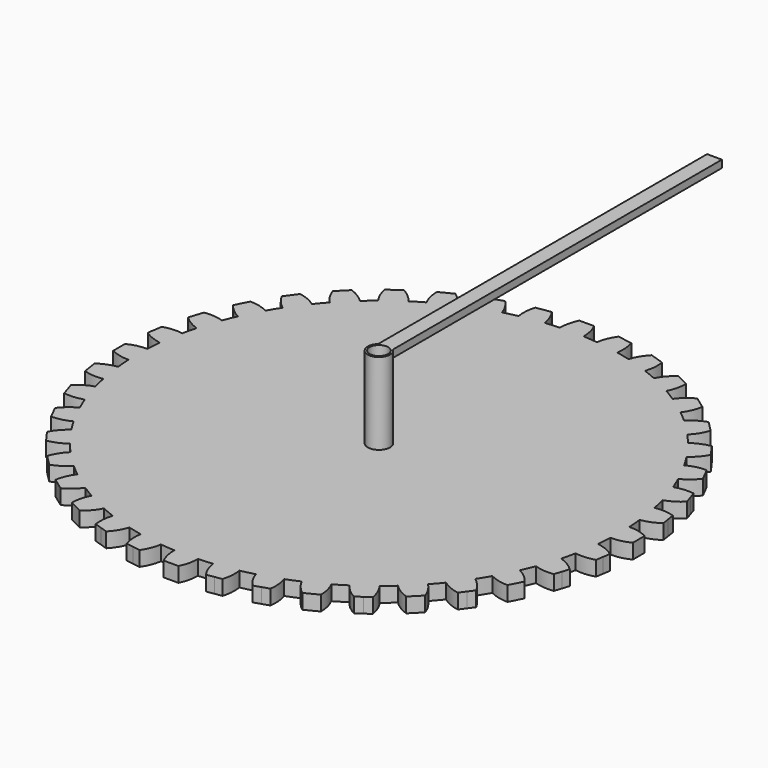
from build123d import *

# Parameters (mm, degrees)
F1_DEPTH = 2
F2_R     = 1.5
F3_DEPTH = 11
F4_R     = 1.25
F5_DEPTH = 15
F6_W     = 1
F6_H     = 55
F7_DEPTH = 1


with BuildPart() as f1:
    # F0 (on Top) → F1 (new body)
    with BuildSketch(Plane.XY):
        with BuildLine():
            ThreePointArc((32.461081165, -1.5900344654), (32.4902688344, -0.7952553484), (32.5, 0))
            ThreePointArc((32.5, 0), (32.4902688344, 0.7952553484), (32.461081165, 1.5900344654))
            ThreePointArc((32.461081165, 1.5900344654), (32.3998133463, 2.5499206112), (32.3101675807, 3.5075733641))
            ThreePointArc((32.3101675807, 3.5075733641), (32.0998710693, 5.0841201138), (31.8126951988, 6.6484903693))
            ThreePointArc((31.8126951988, 6.6484903693), (31.6020224129, 7.5869743253), (31.3636704394, 8.5188130963))
            ThreePointArc((31.3636704394, 8.5188130963), (30.9093367796, 10.0430523172), (30.3809750965, 11.5432383752))
            ThreePointArc((30.3809750965, 11.5432383752), (30.0260848066, 12.4372115519), (29.6448956417, 13.3202913778))
            ThreePointArc((29.6448956417, 13.3202913778), (28.9577120361, 14.7546912415), (28.2011745587, 16.1537535425))
            ThreePointArc((28.2011745587, 16.1537535425), (27.7108053415, 16.9812033533), (27.1961651276, 17.7937798781))
            ThreePointArc((27.1961651276, 17.7937798781), (26.2930523172, 19.1030206995), (25.3269675089, 20.3665096864))
            ThreePointArc((25.3269675089, 20.3665096864), (24.713193882, 21.1070615707), (24.0777747692, 21.8291264636))
            ThreePointArc((24.0777747692, 21.8291264636), (22.9809703886, 22.9809703886), (21.8291264636, 24.0777747692))
            ThreePointArc((21.8291264636, 24.0777747692), (21.1070615707, 24.713193882), (20.3665096864, 25.3269675089))
            ThreePointArc((20.3665096864, 25.3269675089), (19.1030206995, 26.2930523172), (17.7937798781, 27.1961651276))
            ThreePointArc((17.7937798781, 27.1961651276), (16.9812033533, 27.7108053415), (16.1537535425, 28.2011745587))
            ThreePointArc((16.1537535425, 28.2011745587), (14.7546912415, 28.9577120361), (13.3202913778, 29.6448956417))
            ThreePointArc((13.3202913778, 29.6448956417), (12.4372115519, 30.0260848066), (11.5432383752, 30.3809750965))
            ThreePointArc((11.5432383752, 30.3809750965), (10.0430523172, 30.9093367796), (8.5188130963, 31.3636704394))
            ThreePointArc((8.5188130963, 31.3636704394), (7.5869743253, 31.6020224129), (6.6484903693, 31.8126951988))
            ThreePointArc((6.6484903693, 31.8126951988), (5.0841201138, 32.0998710693), (3.5075733641, 32.3101675807))
            ThreePointArc((3.5075733641, 32.3101675807), (2.5499206112, 32.3998133463), (1.5900344654, 32.461081165))
            ThreePointArc((1.5900344654, 32.461081165), (0, 32.5), (-1.5900344654, 32.461081165))
            ThreePointArc((-1.5900344654, 32.461081165), (-2.5499206112, 32.3998133463), (-3.5075733641, 32.3101675807))
            ThreePointArc((-3.5075733641, 32.3101675807), (-5.0841201138, 32.0998710693), (-6.6484903693, 31.8126951988))
            ThreePointArc((-6.6484903693, 31.8126951988), (-7.5869743253, 31.6020224129), (-8.5188130963, 31.3636704394))
            ThreePointArc((-8.5188130963, 31.3636704394), (-10.0430523172, 30.9093367796), (-11.5432383752, 30.3809750965))
            ThreePointArc((-11.5432383752, 30.3809750965), (-12.4372115519, 30.0260848066), (-13.3202913778, 29.6448956417))
            ThreePointArc((-13.3202913778, 29.6448956417), (-14.7546912415, 28.9577120361), (-16.1537535425, 28.2011745587))
            ThreePointArc((-16.1537535425, 28.2011745587), (-16.9812033533, 27.7108053415), (-17.7937798781, 27.1961651276))
            ThreePointArc((-17.7937798781, 27.1961651276), (-19.1030206995, 26.2930523172), (-20.3665096864, 25.3269675089))
            ThreePointArc((-20.3665096864, 25.3269675089), (-21.1070615707, 24.713193882), (-21.8291264636, 24.0777747692))
            ThreePointArc((-21.8291264636, 24.0777747692), (-22.9809703886, 22.9809703886), (-24.0777747692, 21.8291264636))
            ThreePointArc((-24.0777747692, 21.8291264636), (-24.713193882, 21.1070615707), (-25.3269675089, 20.3665096864))
            ThreePointArc((-25.3269675089, 20.3665096864), (-26.2930523172, 19.1030206995), (-27.1961651276, 17.7937798781))
            ThreePointArc((-27.1961651276, 17.7937798781), (-27.7108053415, 16.9812033533), (-28.2011745587, 16.1537535425))
            ThreePointArc((-28.2011745587, 16.1537535425), (-28.9577120361, 14.7546912415), (-29.6448956417, 13.3202913778))
            ThreePointArc((-29.6448956417, 13.3202913778), (-30.0260848066, 12.4372115519), (-30.3809750965, 11.5432383752))
            ThreePointArc((-30.3809750965, 11.5432383752), (-30.9093367796, 10.0430523172), (-31.3636704394, 8.5188130963))
            ThreePointArc((-31.3636704394, 8.5188130963), (-31.6020224129, 7.5869743253), (-31.8126951988, 6.6484903693))
            ThreePointArc((-31.8126951988, 6.6484903693), (-32.0998710693, 5.0841201138), (-32.3101675807, 3.5075733641))
            ThreePointArc((-32.3101675807, 3.5075733641), (-32.3998133463, 2.5499206112), (-32.461081165, 1.5900344654))
            ThreePointArc((-32.461081165, 1.5900344654), (-32.5, 0), (-32.461081165, -1.5900344654))
            ThreePointArc((-32.461081165, -1.5900344654), (-32.3998133463, -2.5499206112), (-32.3101675807, -3.5075733641))
            ThreePointArc((-32.3101675807, -3.5075733641), (-32.0998710693, -5.0841201138), (-31.8126951988, -6.6484903693))
            ThreePointArc((-31.8126951988, -6.6484903693), (-31.6020224129, -7.5869743253), (-31.3636704394, -8.5188130963))
            ThreePointArc((-31.3636704394, -8.5188130963), (-30.9093367796, -10.0430523172), (-30.3809750965, -11.5432383752))
            ThreePointArc((-30.3809750965, -11.5432383752), (-30.0260848066, -12.4372115519), (-29.6448956417, -13.3202913778))
            ThreePointArc((-29.6448956417, -13.3202913778), (-28.9577120361, -14.7546912415), (-28.2011745587, -16.1537535425))
            ThreePointArc((-28.2011745587, -16.1537535425), (-27.7108053415, -16.9812033533), (-27.1961651276, -17.7937798781))
            ThreePointArc((-27.1961651276, -17.7937798781), (-26.2930523172, -19.1030206995), (-25.3269675089, -20.3665096864))
            ThreePointArc((-25.3269675089, -20.3665096864), (-24.713193882, -21.1070615707), (-24.0777747692, -21.8291264636))
            ThreePointArc((-24.0777747692, -21.8291264636), (-22.9809703886, -22.9809703886), (-21.8291264636, -24.0777747692))
            ThreePointArc((-21.8291264636, -24.0777747692), (-21.1070615707, -24.713193882), (-20.3665096864, -25.3269675089))
            ThreePointArc((-20.3665096864, -25.3269675089), (-19.1030206995, -26.2930523172), (-17.7937798781, -27.1961651276))
            ThreePointArc((-17.7937798781, -27.1961651276), (-16.9812033533, -27.7108053415), (-16.1537535425, -28.2011745587))
            ThreePointArc((-16.1537535425, -28.2011745587), (-14.7546912415, -28.9577120361), (-13.3202913778, -29.6448956417))
            ThreePointArc((-13.3202913778, -29.6448956417), (-12.4372115519, -30.0260848066), (-11.5432383752, -30.3809750965))
            ThreePointArc((-11.5432383752, -30.3809750965), (-10.0430523172, -30.9093367796), (-8.5188130963, -31.3636704394))
            ThreePointArc((-8.5188130963, -31.3636704394), (-7.5869743253, -31.6020224129), (-6.6484903693, -31.8126951988))
            ThreePointArc((-6.6484903693, -31.8126951988), (-5.0841201138, -32.0998710693), (-3.5075733641, -32.3101675807))
            ThreePointArc((-3.5075733641, -32.3101675807), (-2.5499206112, -32.3998133463), (-1.5900344654, -32.461081165))
            ThreePointArc((-1.5900344654, -32.461081165), (0, -32.5), (1.5900344654, -32.461081165))
            ThreePointArc((1.5900344654, -32.461081165), (2.5499206112, -32.3998133463), (3.5075733641, -32.3101675807))
            ThreePointArc((3.5075733641, -32.3101675807), (5.0841201138, -32.0998710693), (6.6484903693, -31.8126951988))
            ThreePointArc((6.6484903693, -31.8126951988), (7.5869743253, -31.6020224129), (8.5188130963, -31.3636704394))
            ThreePointArc((8.5188130963, -31.3636704394), (10.0430523172, -30.9093367796), (11.5432383752, -30.3809750965))
            ThreePointArc((11.5432383752, -30.3809750965), (12.4372115519, -30.0260848066), (13.3202913778, -29.6448956417))
            ThreePointArc((13.3202913778, -29.6448956417), (14.7546912415, -28.9577120361), (16.1537535425, -28.2011745587))
            ThreePointArc((16.1537535425, -28.2011745587), (16.9812033533, -27.7108053415), (17.7937798781, -27.1961651276))
            ThreePointArc((17.7937798781, -27.1961651276), (19.1030206995, -26.2930523172), (20.3665096864, -25.3269675089))
            ThreePointArc((20.3665096864, -25.3269675089), (21.1070615707, -24.713193882), (21.8291264636, -24.0777747692))
            ThreePointArc((21.8291264636, -24.0777747692), (22.9809703886, -22.9809703886), (24.0777747692, -21.8291264636))
            ThreePointArc((24.0777747692, -21.8291264636), (24.713193882, -21.1070615707), (25.3269675089, -20.3665096864))
            ThreePointArc((25.3269675089, -20.3665096864), (26.2930523172, -19.1030206995), (27.1961651276, -17.7937798781))
            ThreePointArc((27.1961651276, -17.7937798781), (27.7108053415, -16.9812033533), (28.2011745587, -16.1537535425))
            ThreePointArc((28.2011745587, -16.1537535425), (28.9577120361, -14.7546912415), (29.6448956417, -13.3202913778))
            ThreePointArc((29.6448956417, -13.3202913778), (30.0260848066, -12.4372115519), (30.3809750965, -11.5432383752))
            ThreePointArc((30.3809750965, -11.5432383752), (30.9093367796, -10.0430523172), (31.3636704394, -8.5188130963))
            ThreePointArc((31.3636704394, -8.5188130963), (31.6020224129, -7.5869743253), (31.8126951988, -6.6484903693))
            ThreePointArc((31.8126951988, -6.6484903693), (32.0998710693, -5.0841201138), (32.3101675807, -3.5075733641))
            ThreePointArc((32.3101675807, -3.5075733641), (32.3998133463, -2.5499206112), (32.461081165, -1.5900344654))
        make_face()
        with BuildLine():
            ThreePointArc((32.461081165, 1.5900344654), (32.4902688344, 0.7952553484), (32.5, 0))
            ThreePointArc((32.5, 0), (32.4902688344, -0.7952553484), (32.461081165, -1.5900344654))
            ThreePointArc((32.461081165, -1.5900344654), (33.7654111161, -1.4450651702), (35, -1))
            Line((35, -1), (35, 0))
            Line((35, 0), (35, 1))
            ThreePointArc((35, 1), (33.7654111161, 1.4450651702), (32.461081165, 1.5900344654))
        make_face()
        with BuildLine():
            ThreePointArc((31.8126951988, 6.6484903693), (32.0998710693, 5.0841201138), (32.3101675807, 3.5075733641))
            ThreePointArc((32.3101675807, 3.5075733641), (33.5757608716, 3.8548000048), (34.7255263859, 4.4875179358))
            Line((34.7255263859, 4.4875179358), (34.5690919208, 5.4752062764))
            Line((34.5690919208, 5.4752062764), (34.4126574558, 6.462894617))
            ThreePointArc((34.4126574558, 6.462894617), (33.1236448779, 6.7093480448), (31.8126951988, 6.6484903693))
        make_face()
        with BuildLine():
            ThreePointArc((34.7255263859, -4.4875179358), (33.5757608716, -3.8548000048), (32.3101675807, -3.5075733641))
            ThreePointArc((32.3101675807, -3.5075733641), (32.0998710693, -5.0841201138), (31.8126951988, -6.6484903693))
            ThreePointArc((31.8126951988, -6.6484903693), (33.1236448779, -6.7093480448), (34.4126574558, -6.462894617))
            Line((34.4126574558, -6.462894617), (34.5690919208, -5.4752062764))
            Line((34.5690919208, -5.4752062764), (34.7255263859, -4.4875179358))
        make_face()
        with BuildLine():
            ThreePointArc((30.3809750965, 11.5432383752), (30.9093367796, 10.0430523172), (31.3636704394, 8.5188130963))
            ThreePointArc((31.3636704394, 8.5188130963), (32.5593639629, 9.0597472104), (33.5959950647, 9.8645382868))
            Line((33.5959950647, 9.8645382868), (33.2869780703, 10.8155948031))
            Line((33.2869780703, 10.8155948031), (32.977961076, 11.7666513194))
            ThreePointArc((32.977961076, 11.7666513194), (31.6662645718, 11.8084245035), (30.3809750965, 11.5432383752))
        make_face()
        with BuildLine():
            ThreePointArc((33.5959950647, -9.8645382868), (32.5593639629, -9.0597472104), (31.3636704394, -8.5188130963))
            ThreePointArc((31.3636704394, -8.5188130963), (30.9093367796, -10.0430523172), (30.3809750965, -11.5432383752))
            ThreePointArc((30.3809750965, -11.5432383752), (31.6662645718, -11.8084245035), (32.977961076, -11.7666513194))
            Line((32.977961076, -11.7666513194), (33.2869780703, -10.8155948031))
            Line((33.2869780703, -10.8155948031), (33.5959950647, -9.8645382868))
        make_face()
        with BuildLine():
            ThreePointArc((28.2011745587, 16.1537535425), (28.9577120361, 14.7546912415), (29.6448956417, 13.3202913778))
            ThreePointArc((29.6448956417, 13.3202913778), (30.7412474551, 14.041613372), (31.6392188463, 14.9986609667))
            Line((31.6392188463, 14.9986609667), (31.1852283466, 15.8896674909))
            Line((31.1852283466, 15.8896674909), (30.7312378469, 16.7806740151))
            ThreePointArc((30.7312378469, 16.7806740151), (29.4291557376, 16.616738361), (28.2011745587, 16.1537535425))
        make_face()
        with BuildLine():
            ThreePointArc((31.6392188463, -14.9986609667), (30.7412474551, -14.041613372), (29.6448956417, -13.3202913778))
            ThreePointArc((29.6448956417, -13.3202913778), (28.9577120361, -14.7546912415), (28.2011745587, -16.1537535425))
            ThreePointArc((28.2011745587, -16.1537535425), (29.4291557376, -16.616738361), (30.7312378469, -16.7806740151))
            Line((30.7312378469, -16.7806740151), (31.1852283466, -15.8896674909))
            Line((31.1852283466, -15.8896674909), (31.6392188463, -14.9986609667))
        make_face()
        with BuildLine():
            ThreePointArc((25.3269675089, 20.3665096864), (26.2930523172, 19.1030206995), (27.1961651276, 17.7937798781))
            ThreePointArc((27.1961651276, 17.7937798781), (28.1661794106, 18.677728411), (28.9033800554, 19.7634668359))
            Line((28.9033800554, 19.7634668359), (28.3155948031, 20.5724838302))
            Line((28.3155948031, 20.5724838302), (27.7278095508, 21.3815008246))
            ThreePointArc((27.7278095508, 21.3815008246), (26.4674034194, 21.0158929723), (25.3269675089, 20.3665096864))
        make_face()
        with BuildLine():
            ThreePointArc((28.9033800554, -19.7634668359), (28.1661794106, -18.677728411), (27.1961651276, -17.7937798781))
            ThreePointArc((27.1961651276, -17.7937798781), (26.2930523172, -19.1030206995), (25.3269675089, -20.3665096864))
            ThreePointArc((25.3269675089, -20.3665096864), (26.4674034194, -21.0158929723), (27.7278095508, -21.3815008246))
            Line((27.7278095508, -21.3815008246), (28.3155948031, -20.5724838302))
            Line((28.3155948031, -20.5724838302), (28.9033800554, -19.7634668359))
        make_face()
        with BuildLine():
            ThreePointArc((21.8291264636, 24.0777747692), (22.9809703886, 22.9809703886), (24.0777747692, 21.8291264636))
            ThreePointArc((24.0777747692, 21.8291264636), (24.8975665508, 22.8539357887), (25.4558441227, 24.0416305603))
            Line((25.4558441227, 24.0416305603), (24.7487373415, 24.7487373415))
            Line((24.7487373415, 24.7487373415), (24.0416305603, 25.4558441227))
            ThreePointArc((24.0416305603, 25.4558441227), (22.8539357887, 24.8975665508), (21.8291264636, 24.0777747692))
        make_face()
        with BuildLine():
            ThreePointArc((25.4558441227, -24.0416305603), (24.8975665508, -22.8539357887), (24.0777747692, -21.8291264636))
            ThreePointArc((24.0777747692, -21.8291264636), (22.9809703886, -22.9809703886), (21.8291264636, -24.0777747692))
            ThreePointArc((21.8291264636, -24.0777747692), (22.8539357887, -24.8975665508), (24.0416305603, -25.4558441227))
            Line((24.0416305603, -25.4558441227), (24.7487373415, -24.7487373415))
            Line((24.7487373415, -24.7487373415), (25.4558441227, -24.0416305603))
        make_face()
        with BuildLine():
            ThreePointArc((17.7937798781, 27.1961651276), (19.1030206995, 26.2930523172), (20.3665096864, 25.3269675089))
            ThreePointArc((20.3665096864, 25.3269675089), (21.0158929723, 26.4674034194), (21.3815008246, 27.7278095508))
            Line((21.3815008246, 27.7278095508), (20.5724838302, 28.3155948031))
            Line((20.5724838302, 28.3155948031), (19.7634668359, 28.9033800554))
            ThreePointArc((19.7634668359, 28.9033800554), (18.677728411, 28.1661794106), (17.7937798781, 27.1961651276))
        make_face()
        with BuildLine():
            ThreePointArc((21.3815008246, -27.7278095508), (21.0158929723, -26.4674034194), (20.3665096864, -25.3269675089))
            ThreePointArc((20.3665096864, -25.3269675089), (19.1030206995, -26.2930523172), (17.7937798781, -27.1961651276))
            ThreePointArc((17.7937798781, -27.1961651276), (18.677728411, -28.1661794106), (19.7634668359, -28.9033800554))
            Line((19.7634668359, -28.9033800554), (20.5724838302, -28.3155948031))
            Line((20.5724838302, -28.3155948031), (21.3815008246, -27.7278095508))
        make_face()
        with BuildLine():
            ThreePointArc((13.3202913778, 29.6448956417), (14.7546912415, 28.9577120361), (16.1537535425, 28.2011745587))
            ThreePointArc((16.1537535425, 28.2011745587), (16.616738361, 29.4291557376), (16.7806740151, 30.7312378469))
            Line((16.7806740151, 30.7312378469), (15.8896674909, 31.1852283466))
            Line((15.8896674909, 31.1852283466), (14.9986609667, 31.6392188463))
            ThreePointArc((14.9986609667, 31.6392188463), (14.041613372, 30.7412474551), (13.3202913778, 29.6448956417))
        make_face()
        with BuildLine():
            ThreePointArc((16.7806740151, -30.7312378469), (16.616738361, -29.4291557376), (16.1537535425, -28.2011745587))
            ThreePointArc((16.1537535425, -28.2011745587), (14.7546912415, -28.9577120361), (13.3202913778, -29.6448956417))
            ThreePointArc((13.3202913778, -29.6448956417), (14.041613372, -30.7412474551), (14.9986609667, -31.6392188463))
            Line((14.9986609667, -31.6392188463), (15.8896674909, -31.1852283466))
            Line((15.8896674909, -31.1852283466), (16.7806740151, -30.7312378469))
        make_face()
        with BuildLine():
            ThreePointArc((8.5188130963, 31.3636704394), (10.0430523172, 30.9093367796), (11.5432383752, 30.3809750965))
            ThreePointArc((11.5432383752, 30.3809750965), (11.8084245035, 31.6662645718), (11.7666513194, 32.977961076))
            Line((11.7666513194, 32.977961076), (10.8155948031, 33.2869780703))
            Line((10.8155948031, 33.2869780703), (9.8645382868, 33.5959950647))
            ThreePointArc((9.8645382868, 33.5959950647), (9.0597472104, 32.5593639629), (8.5188130963, 31.3636704394))
        make_face()
        with BuildLine():
            ThreePointArc((11.7666513194, -32.977961076), (11.8084245035, -31.6662645718), (11.5432383752, -30.3809750965))
            ThreePointArc((11.5432383752, -30.3809750965), (10.0430523172, -30.9093367796), (8.5188130963, -31.3636704394))
            ThreePointArc((8.5188130963, -31.3636704394), (9.0597472104, -32.5593639629), (9.8645382868, -33.5959950647))
            Line((9.8645382868, -33.5959950647), (10.8155948031, -33.2869780703))
            Line((10.8155948031, -33.2869780703), (11.7666513194, -32.977961076))
        make_face()
        with BuildLine():
            ThreePointArc((3.5075733641, 32.3101675807), (5.0841201138, 32.0998710693), (6.6484903693, 31.8126951988))
            ThreePointArc((6.6484903693, 31.8126951988), (6.7093480448, 33.1236448779), (6.462894617, 34.4126574558))
            Line((6.462894617, 34.4126574558), (5.4752062764, 34.5690919208))
            Line((5.4752062764, 34.5690919208), (4.4875179358, 34.7255263859))
            ThreePointArc((4.4875179358, 34.7255263859), (3.8548000048, 33.5757608716), (3.5075733641, 32.3101675807))
        make_face()
        with BuildLine():
            ThreePointArc((6.462894617, -34.4126574558), (6.7093480448, -33.1236448779), (6.6484903693, -31.8126951988))
            ThreePointArc((6.6484903693, -31.8126951988), (5.0841201138, -32.0998710693), (3.5075733641, -32.3101675807))
            ThreePointArc((3.5075733641, -32.3101675807), (3.8548000048, -33.5757608716), (4.4875179358, -34.7255263859))
            Line((4.4875179358, -34.7255263859), (5.4752062764, -34.5690919208))
            Line((5.4752062764, -34.5690919208), (6.462894617, -34.4126574558))
        make_face()
        with BuildLine():
            ThreePointArc((-1.5900344654, 32.461081165), (0, 32.5), (1.5900344654, 32.461081165))
            ThreePointArc((1.5900344654, 32.461081165), (1.4450651702, 33.7654111161), (1, 35))
            Line((1, 35), (0, 35))
            Line((0, 35), (-1, 35))
            ThreePointArc((-1, 35), (-1.4450651702, 33.7654111161), (-1.5900344654, 32.461081165))
        make_face()
        with BuildLine():
            ThreePointArc((1, -35), (1.4450651702, -33.7654111161), (1.5900344654, -32.461081165))
            ThreePointArc((1.5900344654, -32.461081165), (0, -32.5), (-1.5900344654, -32.461081165))
            ThreePointArc((-1.5900344654, -32.461081165), (-1.4450651702, -33.7654111161), (-1, -35))
            Line((-1, -35), (0, -35))
            Line((0, -35), (1, -35))
        make_face()
        with BuildLine():
            ThreePointArc((-6.6484903693, 31.8126951988), (-5.0841201138, 32.0998710693), (-3.5075733641, 32.3101675807))
            ThreePointArc((-3.5075733641, 32.3101675807), (-3.8548000048, 33.5757608716), (-4.4875179358, 34.7255263859))
            Line((-4.4875179358, 34.7255263859), (-5.4752062764, 34.5690919208))
            Line((-5.4752062764, 34.5690919208), (-6.462894617, 34.4126574558))
            ThreePointArc((-6.462894617, 34.4126574558), (-6.7093480448, 33.1236448779), (-6.6484903693, 31.8126951988))
        make_face()
        with BuildLine():
            ThreePointArc((-4.4875179358, -34.7255263859), (-3.8548000048, -33.5757608716), (-3.5075733641, -32.3101675807))
            ThreePointArc((-3.5075733641, -32.3101675807), (-5.0841201138, -32.0998710693), (-6.6484903693, -31.8126951988))
            ThreePointArc((-6.6484903693, -31.8126951988), (-6.7093480448, -33.1236448779), (-6.462894617, -34.4126574558))
            Line((-6.462894617, -34.4126574558), (-5.4752062764, -34.5690919208))
            Line((-5.4752062764, -34.5690919208), (-4.4875179358, -34.7255263859))
        make_face()
        with BuildLine():
            ThreePointArc((-11.5432383752, 30.3809750965), (-10.0430523172, 30.9093367796), (-8.5188130963, 31.3636704394))
            ThreePointArc((-8.5188130963, 31.3636704394), (-9.0597472104, 32.5593639629), (-9.8645382868, 33.5959950647))
            Line((-9.8645382868, 33.5959950647), (-10.8155948031, 33.2869780703))
            Line((-10.8155948031, 33.2869780703), (-11.7666513194, 32.977961076))
            ThreePointArc((-11.7666513194, 32.977961076), (-11.8084245035, 31.6662645718), (-11.5432383752, 30.3809750965))
        make_face()
        with BuildLine():
            ThreePointArc((-9.8645382868, -33.5959950647), (-9.0597472104, -32.5593639629), (-8.5188130963, -31.3636704394))
            ThreePointArc((-8.5188130963, -31.3636704394), (-10.0430523172, -30.9093367796), (-11.5432383752, -30.3809750965))
            ThreePointArc((-11.5432383752, -30.3809750965), (-11.8084245035, -31.6662645718), (-11.7666513194, -32.977961076))
            Line((-11.7666513194, -32.977961076), (-10.8155948031, -33.2869780703))
            Line((-10.8155948031, -33.2869780703), (-9.8645382868, -33.5959950647))
        make_face()
        with BuildLine():
            ThreePointArc((-16.1537535425, 28.2011745587), (-14.7546912415, 28.9577120361), (-13.3202913778, 29.6448956417))
            ThreePointArc((-13.3202913778, 29.6448956417), (-14.041613372, 30.7412474551), (-14.9986609667, 31.6392188463))
            Line((-14.9986609667, 31.6392188463), (-15.8896674909, 31.1852283466))
            Line((-15.8896674909, 31.1852283466), (-16.7806740151, 30.7312378469))
            ThreePointArc((-16.7806740151, 30.7312378469), (-16.616738361, 29.4291557376), (-16.1537535425, 28.2011745587))
        make_face()
        with BuildLine():
            ThreePointArc((-14.9986609667, -31.6392188463), (-14.041613372, -30.7412474551), (-13.3202913778, -29.6448956417))
            ThreePointArc((-13.3202913778, -29.6448956417), (-14.7546912415, -28.9577120361), (-16.1537535425, -28.2011745587))
            ThreePointArc((-16.1537535425, -28.2011745587), (-16.616738361, -29.4291557376), (-16.7806740151, -30.7312378469))
            Line((-16.7806740151, -30.7312378469), (-15.8896674909, -31.1852283466))
            Line((-15.8896674909, -31.1852283466), (-14.9986609667, -31.6392188463))
        make_face()
        with BuildLine():
            ThreePointArc((-20.3665096864, 25.3269675089), (-19.1030206995, 26.2930523172), (-17.7937798781, 27.1961651276))
            ThreePointArc((-17.7937798781, 27.1961651276), (-18.677728411, 28.1661794106), (-19.7634668359, 28.9033800554))
            Line((-19.7634668359, 28.9033800554), (-20.5724838302, 28.3155948031))
            Line((-20.5724838302, 28.3155948031), (-21.3815008246, 27.7278095508))
            ThreePointArc((-21.3815008246, 27.7278095508), (-21.0158929723, 26.4674034194), (-20.3665096864, 25.3269675089))
        make_face()
        with BuildLine():
            ThreePointArc((-19.7634668359, -28.9033800554), (-18.677728411, -28.1661794106), (-17.7937798781, -27.1961651276))
            ThreePointArc((-17.7937798781, -27.1961651276), (-19.1030206995, -26.2930523172), (-20.3665096864, -25.3269675089))
            ThreePointArc((-20.3665096864, -25.3269675089), (-21.0158929723, -26.4674034194), (-21.3815008246, -27.7278095508))
            Line((-21.3815008246, -27.7278095508), (-20.5724838302, -28.3155948031))
            Line((-20.5724838302, -28.3155948031), (-19.7634668359, -28.9033800554))
        make_face()
        with BuildLine():
            ThreePointArc((-24.0777747692, 21.8291264636), (-22.9809703886, 22.9809703886), (-21.8291264636, 24.0777747692))
            ThreePointArc((-21.8291264636, 24.0777747692), (-22.8539357887, 24.8975665508), (-24.0416305603, 25.4558441227))
            Line((-24.0416305603, 25.4558441227), (-24.7487373415, 24.7487373415))
            Line((-24.7487373415, 24.7487373415), (-25.4558441227, 24.0416305603))
            ThreePointArc((-25.4558441227, 24.0416305603), (-24.8975665508, 22.8539357887), (-24.0777747692, 21.8291264636))
        make_face()
        with BuildLine():
            ThreePointArc((-24.0416305603, -25.4558441227), (-22.8539357887, -24.8975665508), (-21.8291264636, -24.0777747692))
            ThreePointArc((-21.8291264636, -24.0777747692), (-22.9809703886, -22.9809703886), (-24.0777747692, -21.8291264636))
            ThreePointArc((-24.0777747692, -21.8291264636), (-24.8975665508, -22.8539357887), (-25.4558441227, -24.0416305603))
            Line((-25.4558441227, -24.0416305603), (-24.7487373415, -24.7487373415))
            Line((-24.7487373415, -24.7487373415), (-24.0416305603, -25.4558441227))
        make_face()
        with BuildLine():
            ThreePointArc((-27.1961651276, 17.7937798781), (-26.2930523172, 19.1030206995), (-25.3269675089, 20.3665096864))
            ThreePointArc((-25.3269675089, 20.3665096864), (-26.4674034194, 21.0158929723), (-27.7278095508, 21.3815008246))
            Line((-27.7278095508, 21.3815008246), (-28.3155948031, 20.5724838302))
            Line((-28.3155948031, 20.5724838302), (-28.9033800554, 19.7634668359))
            ThreePointArc((-28.9033800554, 19.7634668359), (-28.1661794106, 18.677728411), (-27.1961651276, 17.7937798781))
        make_face()
        with BuildLine():
            ThreePointArc((-27.7278095508, -21.3815008246), (-26.4674034194, -21.0158929723), (-25.3269675089, -20.3665096864))
            ThreePointArc((-25.3269675089, -20.3665096864), (-26.2930523172, -19.1030206995), (-27.1961651276, -17.7937798781))
            ThreePointArc((-27.1961651276, -17.7937798781), (-28.1661794106, -18.677728411), (-28.9033800554, -19.7634668359))
            Line((-28.9033800554, -19.7634668359), (-28.3155948031, -20.5724838302))
            Line((-28.3155948031, -20.5724838302), (-27.7278095508, -21.3815008246))
        make_face()
        with BuildLine():
            ThreePointArc((-29.6448956417, 13.3202913778), (-28.9577120361, 14.7546912415), (-28.2011745587, 16.1537535425))
            ThreePointArc((-28.2011745587, 16.1537535425), (-29.4291557376, 16.616738361), (-30.7312378469, 16.7806740151))
            Line((-30.7312378469, 16.7806740151), (-31.1852283466, 15.8896674909))
            Line((-31.1852283466, 15.8896674909), (-31.6392188463, 14.9986609667))
            ThreePointArc((-31.6392188463, 14.9986609667), (-30.7412474551, 14.041613372), (-29.6448956417, 13.3202913778))
        make_face()
        with BuildLine():
            ThreePointArc((-30.7312378469, -16.7806740151), (-29.4291557376, -16.616738361), (-28.2011745587, -16.1537535425))
            ThreePointArc((-28.2011745587, -16.1537535425), (-28.9577120361, -14.7546912415), (-29.6448956417, -13.3202913778))
            ThreePointArc((-29.6448956417, -13.3202913778), (-30.7412474551, -14.041613372), (-31.6392188463, -14.9986609667))
            Line((-31.6392188463, -14.9986609667), (-31.1852283466, -15.8896674909))
            Line((-31.1852283466, -15.8896674909), (-30.7312378469, -16.7806740151))
        make_face()
        with BuildLine():
            ThreePointArc((-31.3636704394, 8.5188130963), (-30.9093367796, 10.0430523172), (-30.3809750965, 11.5432383752))
            ThreePointArc((-30.3809750965, 11.5432383752), (-31.6662645718, 11.8084245035), (-32.977961076, 11.7666513194))
            Line((-32.977961076, 11.7666513194), (-33.2869780703, 10.8155948031))
            Line((-33.2869780703, 10.8155948031), (-33.5959950647, 9.8645382868))
            ThreePointArc((-33.5959950647, 9.8645382868), (-32.5593639629, 9.0597472104), (-31.3636704394, 8.5188130963))
        make_face()
        with BuildLine():
            ThreePointArc((-32.977961076, -11.7666513194), (-31.6662645718, -11.8084245035), (-30.3809750965, -11.5432383752))
            ThreePointArc((-30.3809750965, -11.5432383752), (-30.9093367796, -10.0430523172), (-31.3636704394, -8.5188130963))
            ThreePointArc((-31.3636704394, -8.5188130963), (-32.5593639629, -9.0597472104), (-33.5959950647, -9.8645382868))
            Line((-33.5959950647, -9.8645382868), (-33.2869780703, -10.8155948031))
            Line((-33.2869780703, -10.8155948031), (-32.977961076, -11.7666513194))
        make_face()
        with BuildLine():
            ThreePointArc((-32.3101675807, 3.5075733641), (-32.0998710693, 5.0841201138), (-31.8126951988, 6.6484903693))
            ThreePointArc((-31.8126951988, 6.6484903693), (-33.1236448779, 6.7093480448), (-34.4126574558, 6.462894617))
            Line((-34.4126574558, 6.462894617), (-34.5690919208, 5.4752062764))
            Line((-34.5690919208, 5.4752062764), (-34.7255263859, 4.4875179358))
            ThreePointArc((-34.7255263859, 4.4875179358), (-33.5757608716, 3.8548000048), (-32.3101675807, 3.5075733641))
        make_face()
        with BuildLine():
            ThreePointArc((-34.4126574558, -6.462894617), (-33.1236448779, -6.7093480448), (-31.8126951988, -6.6484903693))
            ThreePointArc((-31.8126951988, -6.6484903693), (-32.0998710693, -5.0841201138), (-32.3101675807, -3.5075733641))
            ThreePointArc((-32.3101675807, -3.5075733641), (-33.5757608716, -3.8548000048), (-34.7255263859, -4.4875179358))
            Line((-34.7255263859, -4.4875179358), (-34.5690919208, -5.4752062764))
            Line((-34.5690919208, -5.4752062764), (-34.4126574558, -6.462894617))
        make_face()
        with BuildLine():
            ThreePointArc((-32.461081165, -1.5900344654), (-32.5, 0), (-32.461081165, 1.5900344654))
            ThreePointArc((-32.461081165, 1.5900344654), (-33.7654111161, 1.4450651702), (-35, 1))
            Line((-35, 1), (-35, 0))
            Line((-35, 0), (-35, -1))
            ThreePointArc((-35, -1), (-33.7654111161, -1.4450651702), (-32.461081165, -1.5900344654))
        make_face()
    extrude(amount=F1_DEPTH)

    # F2 (on face) → F3 (join)
    with BuildSketch(Plane.XY.offset(2)):
        Circle(F2_R)
    extrude(amount=F3_DEPTH)

    # F4 (on face) → F5 (cut)
    with BuildSketch(Plane.XY.offset(13)):
        Circle(F4_R)
    extrude(amount=-F5_DEPTH, mode=Mode.SUBTRACT)

    # F6 (on face) → F7 (join)
    with BuildSketch(Plane.XY.offset(13)):
        with BuildLine():
            ThreePointArc((-1, 1.1180339887), (-0.5352331347, 1.4012585384), (0, 1.5))
            Line((0, 1.5), (-1, 1.5))
            Line((-1, 1.5), (-1, 1.1180339887))
        make_face()
        with Locations((-0.5, 29)):
            Rectangle(F6_W, F6_H)
        with Locations((0.5, 29)):
            Rectangle(F6_W, F6_H)
        with BuildLine():
            Line((1, 1.5), (0, 1.5))
            ThreePointArc((0, 1.5), (0.5352331347, 1.4012585384), (1, 1.1180339887))
            Line((1, 1.1180339887), (1, 1.5))
        make_face()
    extrude(amount=-F7_DEPTH)


solid = f1.part
